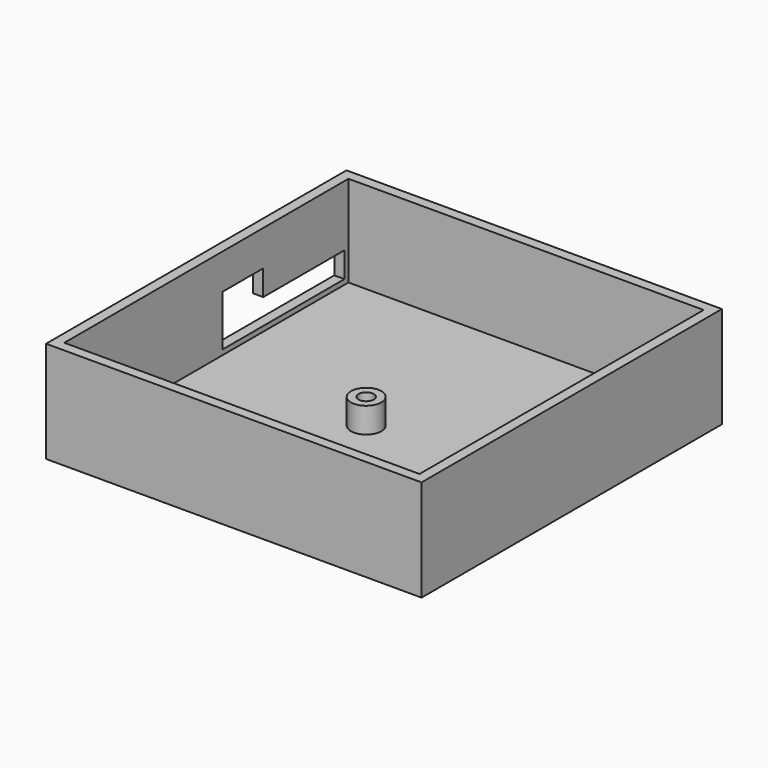
from build123d import *

# Parameters (mm, degrees)
SKETCH002_W     = 74
SKETCH002_H     = 74
PAD001_DEPTH    = 20
SKETCH003_W     = 70
SKETCH003_H     = 70
POCKET001_DEPTH = 18
SKETCH_R        = 3
PAD_DEPTH       = 5
SKETCH004_R     = 1.5
POCKET_DEPTH    = 5
POCKET002_DEPTH = 2


with BuildPart() as part:
    # Sketch002 → Pad001 (new body)
    with BuildSketch(Plane.XY):
        with Locations((37, 37)):
            Rectangle(SKETCH002_W, SKETCH002_H)
    extrude(amount=PAD001_DEPTH)

    # Sketch003 (on Face6 of Pad001) → Pocket001 (cut)
    with BuildSketch(Plane.XY.offset(20)):
        with Locations((37, 37)):
            Rectangle(SKETCH003_W, SKETCH003_H)
    extrude(amount=-POCKET001_DEPTH, mode=Mode.SUBTRACT)

    # Sketch (on Face11 of Pocket001) → Pad (join)
    with BuildSketch(Plane.XY.offset(2)):
        with Locations((8.52, 11.06)):
            Circle(SKETCH_R)
        with Locations((33.92, 36.46)):
            Circle(SKETCH_R)
        with Locations((64.4, 11.06)):
            Circle(SKETCH_R)
    extrude(amount=PAD_DEPTH)

    # Sketch004 (on Face17 of Pad) → Pocket (cut)
    with BuildSketch(Plane.XY.offset(7)):
        with Locations((8.52, 11.06)):
            Circle(SKETCH004_R)
        with Locations((64.4, 11.06)):
            Circle(SKETCH004_R)
        with Locations((33.92, 36.46)):
            Circle(SKETCH004_R)
    extrude(amount=-POCKET_DEPTH, mode=Mode.SUBTRACT)

    # Sketch005 (on Face2 of Pocket) → Pocket002 (cut)
    with BuildSketch(Plane(origin=(0, 0, 0), x_dir=(0, -1, 0), z_dir=(-1, 0, 0))):
        Polygon((-71, 8), (-71, 3), (-41, 3), (-41, 13), (-51, 13), (-51, 8), align=None)
    extrude(amount=-POCKET002_DEPTH, mode=Mode.SUBTRACT)


solid = part.part
